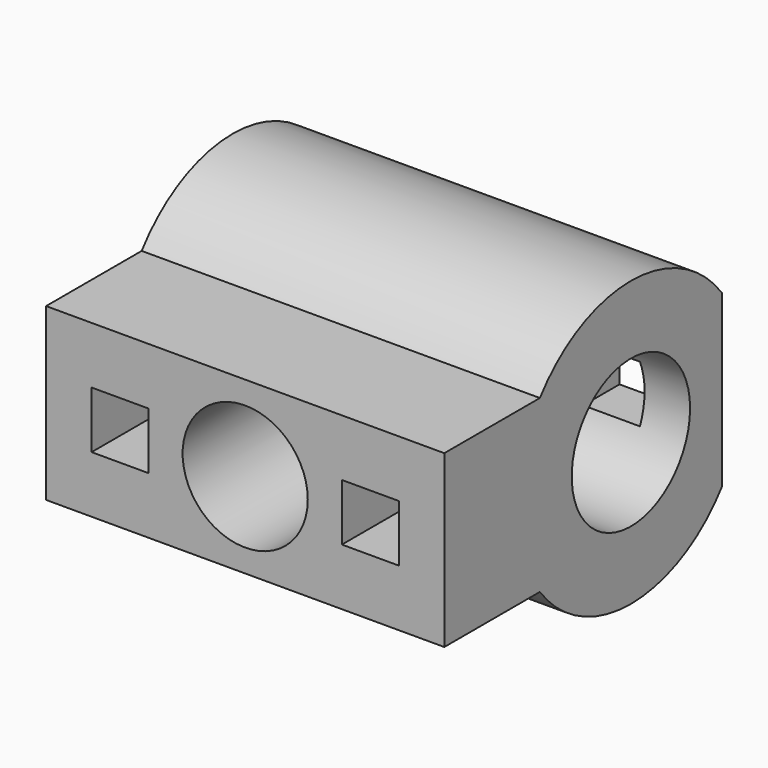
from build123d import *

# Parameters (mm, degrees)
F0_W     = 70
F0_H     = 66
F1_DEPTH = 30
F3_DEPTH = 70
F4_DEPTH = 30
F6_D     = 26
F7_W     = 10
F7_H     = 10
F7_R     = 11
F8_DEPTH = 70


with BuildPart() as f1:
    # F0 (on Top) → F1 (new body)
    with BuildSketch(Plane.XY):
        with Locations((-35.7373842597, 73.1314720511)):
            Rectangle(F0_W, F0_H)
    extrude(amount=F1_DEPTH)

    # F2 (on face) → F3 (join)
    with BuildSketch(Plane(origin=(-70.7373842597, 0, 0), x_dir=(0, -1, 0), z_dir=(-1, 0, 0))):
        with BuildLine():
            Line((-101.1314720511, 30), (-61.1314720511, 30))
            ThreePointArc((-61.1314720511, 30), (-81.1314720511, 40), (-101.1314720511, 30))
        make_face()
        with BuildLine():
            ThreePointArc((-101.1314720511, 0), (-81.1314720511, -10), (-61.1314720511, 0))
            Line((-61.1314720511, 0), (-101.1314720511, 0))
        make_face()
    extrude(amount=-F3_DEPTH)

    # F4 (cut): a face of the model
    f4_faces = [f1.faces().sort_by_distance(p)[0] for p in [
        (-35.7373842597, 103.6314720511, 30),
    ]]
    extrude(f4_faces, amount=-F4_DEPTH, mode=Mode.SUBTRACT)

    # F6 (through all)
    with Locations(Plane(origin=(-70.7373842597, 0, 0), x_dir=(0, -1, 0), z_dir=(-1, 0, 0))):
        with Locations((-81.1314720511, 15)):
            Hole(F6_D / 2)

    # F7 (on face) → F8 (cut)
    with BuildSketch(Plane.XZ.offset(-40.1314720511)):
        with Locations((-57.7373842597, 15)):
            Rectangle(F7_W, F7_H)
        with Locations((-13.7373842597, 15)):
            Rectangle(F7_W, F7_H)
        with Locations((-35.7373842597, 15)):
            Circle(F7_R)
    extrude(amount=-F8_DEPTH, mode=Mode.SUBTRACT)


solid = f1.part
